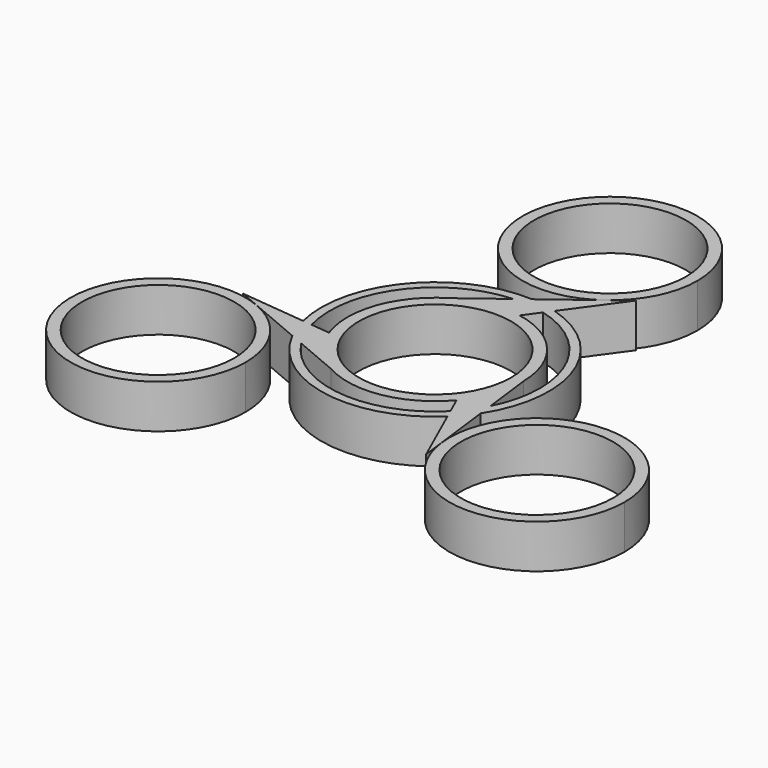
from build123d import *

# Parameters (mm, degrees)
F0_R     = 11.049
F1_DEPTH = 6.35
F2_R     = 16.51
F2_R_2   = 15.24
F3_DEPTH = 6.35


with BuildPart() as f1:
    # F0 (on Top) → F1 (new body)
    with BuildSketch(Plane.XY):
        with BuildLine():
            ThreePointArc((-6.516394, 10.900762), (-2.270988, 12.495304), (2.263992, 12.496573))
            Line((2.263992, 12.496573), (10.290465, 23.58714))
            Line((10.290465, 23.58714), (7.65132, 21.595026))
            Line((7.65132, 21.595026), (-6.516394, 10.900762))
        make_face()
        with BuildLine():
            ThreePointArc((12.7, 31.73146), (-11.367976, 37.393538), (7.65132, 21.595026))
            ThreePointArc((7.65132, 21.595026), (11.367976, 26.069383), (12.7, 31.73146))
        make_face()
        with Locations((0, 31.73146)):
            Circle(F0_R, mode=Mode.SUBTRACT)
        with BuildLine():
            ThreePointArc((9.690354, -8.208961), (11.923873, -4.371642), (12.7, 0))
            ThreePointArc((12.7, 0), (12.699633, 0.096494), (12.698534, 0.192982))
            ThreePointArc((12.698534, 0.192982), (9.685757, 8.214385), (2.263992, 12.496573))
            ThreePointArc((2.263992, 12.496573), (-2.270988, 12.495304), (-6.516394, 10.900762))
            ThreePointArc((-6.516394, 10.900762), (-11.956744, 4.280919), (-11.954346, -4.287612))
            ThreePointArc((-11.954346, -4.287612), (-9.685757, -8.214385), (-6.182139, -11.093744))
            ThreePointArc((-6.182139, -11.093744), (2.270988, -12.495304), (9.690354, -8.208961))
        make_face()
        Circle(F0_R, mode=Mode.SUBTRACT)
        with BuildLine():
            Line((-22.5275, -4.171276), (-6.182139, -11.093744))
            ThreePointArc((-6.182139, -11.093744), (-9.685757, -8.214385), (-11.954346, -4.287612))
            Line((-11.954346, -4.287612), (-25.572295, -2.881766))
            Line((-25.572295, -2.881766), (-22.5275, -4.171276))
        make_face()
        with BuildLine():
            ThreePointArc((-14.780251, -15.86573), (-16.89276, -8.851813), (-22.5275, -4.171276))
            ThreePointArc((-22.5275, -4.171276), (-38.067742, -22.879647), (-14.780251, -15.86573))
        make_face()
        with Locations((-27.480251, -15.86573)):
            Circle(F0_R, mode=Mode.SUBTRACT)
        with BuildLine():
            ThreePointArc((40.180251, -15.86573), (26.699766, -3.189735), (14.876181, -17.42375))
            ThreePointArc((14.876181, -17.42375), (28.260736, -28.541725), (40.180251, -15.86573))
        make_face()
        with Locations((27.480251, -15.86573)):
            Circle(F0_R, mode=Mode.SUBTRACT)
        with BuildLine():
            ThreePointArc((12.698534, 0.192982), (12.699633, 0.096494), (12.7, 0))
            ThreePointArc((12.7, 0), (11.923873, -4.371642), (9.690354, -8.208961))
            Line((9.690354, -8.208961), (15.28183, -20.705374))
            Line((15.28183, -20.705374), (14.876181, -17.42375))
            Line((14.876181, -17.42375), (12.698534, 0.192982))
        make_face()
    extrude(amount=F1_DEPTH)

    # F2 (on Top) → F3 (join)
    with BuildSketch(Plane.XY):
        Circle(F2_R)
        Circle(F2_R_2, mode=Mode.SUBTRACT)
    extrude(amount=F3_DEPTH)


solid = f1.part
